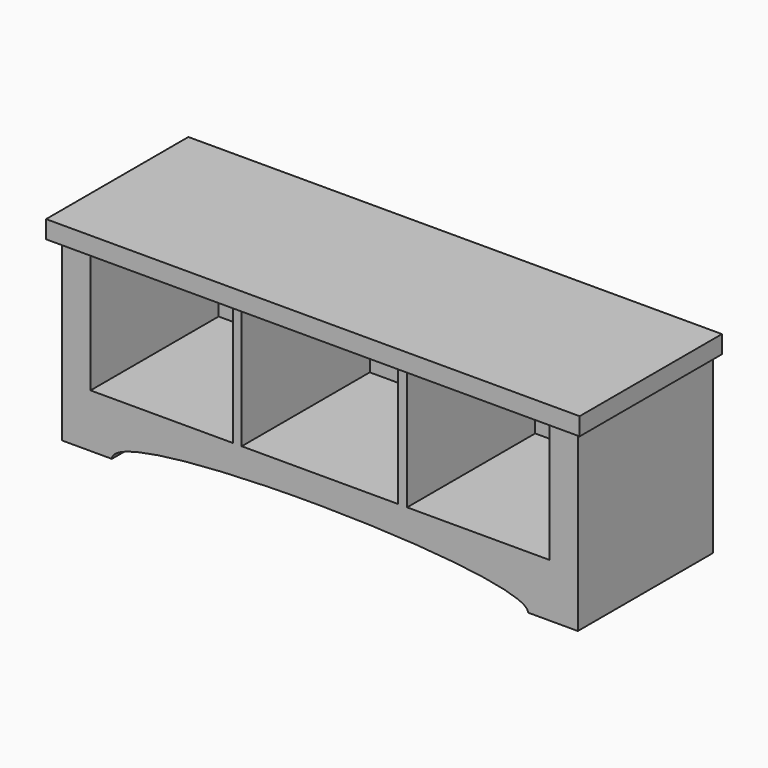
from build123d import *

# Parameters (mm, degrees)
F1_DEPTH = 127
F0_W     = 20.32
F0_H     = 12.833738
F0_H_2   = 10.154468
F2_DEPTH = 120.65
F0_W_2   = 111.76
F0_H_3   = 17.412408
F3_DEPTH = 6.35


with BuildPart() as f1:
    # F0 (on Front) → F1 (new body)
    with BuildSketch(Plane.XZ):
        Polygon((190.410141, 39.868113), (-190.589859, 39.868113), (-190.589859, 27.168113), (-184.239859, 27.168113), (-163.919859, 27.168113), (-62.319859, 27.168113), (-55.969859, 27.168113), (55.790141, 27.168113), (62.140141, 27.168113), (163.740141, 27.168113), (184.060141, 27.168113), (190.410141, 27.168113), align=None)
    extrude(amount=F1_DEPTH)

    # F0 (on Front) → F2 (join)
    with BuildSketch(Plane.XZ):
        with BuildLine():
            Line((-163.919859, -61.731887), (-184.239859, -61.731887))
            Line((-184.239859, -61.731887), (-184.239859, -99.831887))
            Line((-184.239859, -99.831887), (-148.679859, -99.831887))
            add(Edge.make_bspline(
                [(-148.679859, -99.831887), (-148.487159, -86.25736), (-74.288484, -80.346777), (-0.089859, -80.781887)],
                knots=[0, 0, 0, 0, 148.535829, 148.535829, 148.535829, 148.535829], degree=3))
            Line((-0.089859, -80.781887), (-0.089859, -61.731887))
            Line((-0.089859, -61.731887), (-55.969859, -61.731887))
            Line((-55.969859, -61.731887), (-62.319859, -61.731887))
            Line((-62.319859, -61.731887), (-163.919859, -61.731887))
        make_face()
        with BuildLine():
            Line((184.060141, -99.831887), (184.060141, -61.731887))
            Line((184.060141, -61.731887), (163.740141, -61.731887))
            Line((163.740141, -61.731887), (62.140141, -61.731887))
            Line((62.140141, -61.731887), (55.790141, -61.731887))
            Line((55.790141, -61.731887), (-0.089859, -61.731887))
            Line((-0.089859, -61.731887), (-0.089859, -80.781887))
            add(Edge.make_bspline(
                [(-0.089859, -80.781887), (74.162886, -81.217313), (148.41558, -88.007693), (148.500141, -99.831887)],
                knots=[148.535829, 148.535829, 148.535829, 148.535829, 297.18, 297.18, 297.18, 297.18], degree=3))
            Line((148.500141, -99.831887), (184.060141, -99.831887))
        make_face()
        with Locations((173.900141, -55.315018)):
            Rectangle(F0_W, F0_H)
        Polygon((184.060141, -48.898149), (184.060141, 27.168113), (163.740141, 27.168113), (163.740141, -24.726205), (163.740141, -48.898149), align=None)
        Polygon((62.140141, -9.948243), (62.140141, 27.168113), (55.790141, 27.168113), (55.790141, 9.755705), (55.790141, -9.948243), align=None)
        Polygon((62.140141, -24.726205), (62.140141, -9.948243), (55.790141, -9.948243), (55.790141, -61.731887), (62.140141, -61.731887), align=None)
        Polygon((-163.919859, 27.168113), (-184.239859, 27.168113), (-184.239859, -51.577419), (-163.919859, -51.577419), (-163.919859, -26.83734), align=None)
        with Locations((-174.079859, -56.654653)):
            Rectangle(F0_W, F0_H_2)
        Polygon((-55.969859, 27.168113), (-62.319859, 27.168113), (-62.319859, -2.911118), (-55.969859, -2.911118), (-55.969859, 9.755705), align=None)
        Polygon((-55.969859, -2.911118), (-62.319859, -2.911118), (-62.319859, -26.83734), (-62.319859, -61.731887), (-55.969859, -61.731887), align=None)
    extrude(amount=F2_DEPTH)

    # F0 (on Front) → F3 (join)
    with BuildSketch(Plane.XZ):
        Polygon((-62.319859, 27.168113), (-163.919859, 27.168113), (-163.919859, -26.83734), (-62.319859, -26.83734), (-62.319859, -2.911118), align=None)
        Polygon((-163.919859, -26.83734), (-163.919859, -51.577419), (-163.919859, -61.731887), (-62.319859, -61.731887), (-62.319859, -26.83734), align=None)
        with Locations((-0.089859, 18.461909)):
            Rectangle(F0_W_2, F0_H_3)
        Polygon((55.790141, 9.755705), (-55.969859, 9.755705), (-55.969859, -2.911118), (-55.969859, -61.731887), (-0.089859, -61.731887), (55.790141, -61.731887), (55.790141, -9.948243), align=None)
        Polygon((163.740141, -24.726205), (163.740141, 27.168113), (62.140141, 27.168113), (62.140141, -9.948243), (62.140141, -24.726205), align=None)
        Polygon((163.740141, -61.731887), (163.740141, -48.898149), (163.740141, -24.726205), (62.140141, -24.726205), (62.140141, -61.731887), align=None)
    extrude(amount=F3_DEPTH)


solid = f1.part
